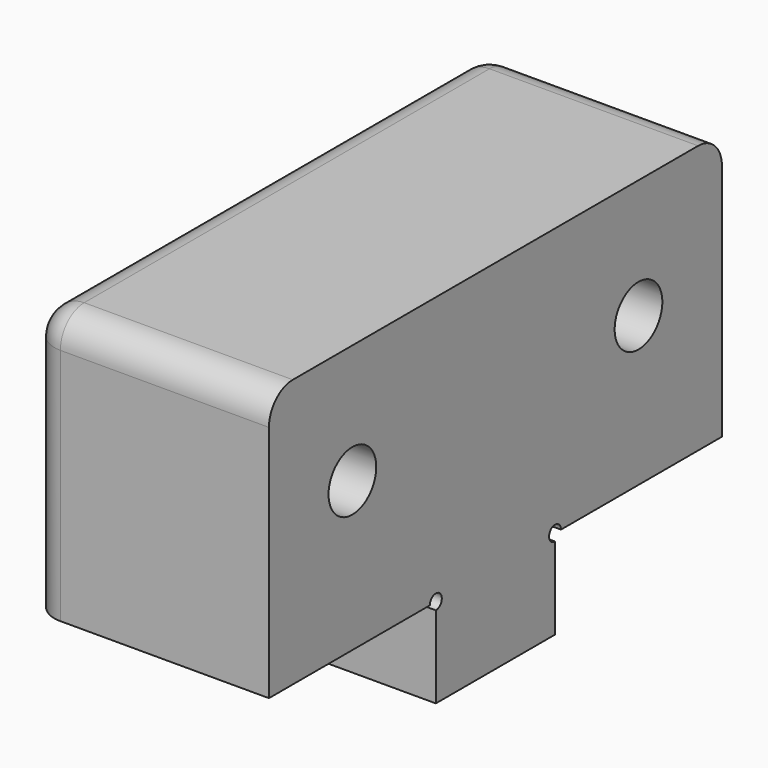
from build123d import *

# Parameters (mm, degrees)
F0_R           = 4.7625
F1_DEPTH       = 25.4
F2_D           = 6.35
F2_CBORE_D     = 9.525
F2_CBORE_DEPTH = 6.096
F3_DEPTH       = 15.875
F4_R           = 3.175
F6_D           = 5.1054
F6_DEPTH       = 25.4
F6_TIP         = 1.5338169022
F7_D           = 5.1054
F7_DEPTH       = 19.05
F7_TIP         = 1.5338169022


with BuildPart() as f1:
    # F0 (on Right) → F1 (new body)
    with BuildSketch(Plane.YZ):
        with BuildLine():
            Line((-7.9375, -9.525), (0, -9.525))
            Line((0, -9.525), (7.9375, -9.525))
            Line((7.9375, -9.525), (7.9375, -0.79375))
            ThreePointArc((7.9375, -0.79375), (7.3762339924, 0.5612660076), (8.73125, 0))
            Line((8.73125, 0), (30.1625, 0))
            Line((30.1625, 0), (30.1625, 28.575))
            Line((30.1625, 28.575), (0, 28.575))
            Line((0, 28.575), (-30.1625, 28.575))
            Line((-30.1625, 28.575), (-30.1625, 0))
            Line((-30.1625, 0), (-8.73125, 0))
            ThreePointArc((-8.73125, 0), (-7.3762339924, 0.5612660076), (-7.9375, -0.79375))
            Line((-7.9375, -0.79375), (-7.9375, -9.525))
        make_face()
        with Locations((0, 15.875)):
            Circle(F0_R, mode=Mode.SUBTRACT)
        with Locations((0, 15.875)):
            Circle(F0_R)
    extrude(amount=F1_DEPTH)

    # F2 (through all)
    with Locations(Plane(origin=(0, 0, 0), x_dir=(0, 1, 0), z_dir=(-1, 0, 0))):
        with Locations((-19.05, -15.875), (19.05, -15.875)):
            CounterBoreHole(F2_D / 2, F2_CBORE_D / 2, F2_CBORE_DEPTH)

    # F0 (on Right) → F3 (cut)
    with BuildSketch(Plane.YZ):
        with Locations((0, 15.875)):
            Circle(F0_R)
    extrude(amount=F3_DEPTH, mode=Mode.SUBTRACT)

    # F4
    f4_edges = [f1.edges().sort_by_distance(p)[0] for p in [
        (12.7, -30.1625, 28.575),
        (12.7, 30.1625, 28.575),
        (0, 0, 28.575),
        (0, -30.1625, 14.2875),
        (0, 30.1625, 14.2875),
    ]]
    fillet(f4_edges, radius=F4_R)

    # F6
    with Locations(Plane(origin=(0, 0, -9.525), x_dir=(1, 0, 0), z_dir=(0, 0, -1))):
        with Locations((5.588, 0)):
            Hole(F6_D / 2, depth=F6_DEPTH)
            with Locations((0, 0, -(F6_DEPTH + F6_TIP / 2))):  # 118° drill point
                Cone(0, F6_D / 2, F6_TIP, mode=Mode.SUBTRACT)

    # F7
    with Locations(Plane(origin=(0, 0, -9.525), x_dir=(1, 0, 0), z_dir=(0, 0, -1))):
        with Locations((19.812, 0)):
            Hole(F7_D / 2, depth=F7_DEPTH)
            with Locations((0, 0, -(F7_DEPTH + F7_TIP / 2))):  # 118° drill point
                Cone(0, F7_D / 2, F7_TIP, mode=Mode.SUBTRACT)


solid = f1.part
